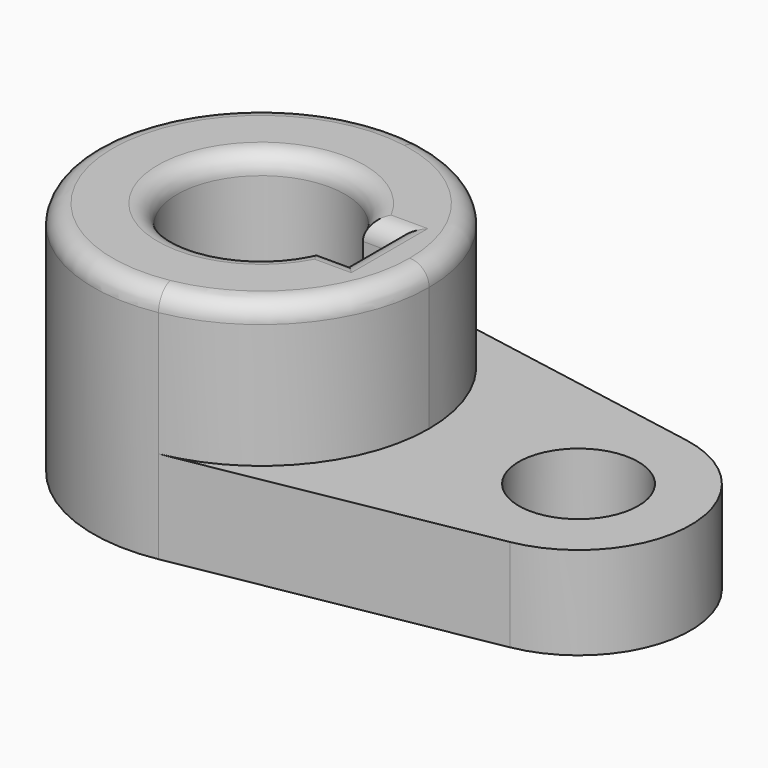
from build123d import *

# Parameters (mm, degrees)
F1_DEPTH = 40.2336
F0_R     = 10.16
F2_DEPTH = 15.7734
F3_R     = 3.302


with BuildPart() as f1:
    # F0 (on Top) → F1 (new body)
    with BuildSketch(Plane.XY):
        with BuildLine():
            ThreePointArc((5.042647, -28.126541), (21.916025, -18.336262), (28.575, 0))
            ThreePointArc((28.575, 0), (21.916025, 18.336262), (5.042647, 28.126541))
            ThreePointArc((5.042647, 28.126541), (-28.575, 0), (5.042647, -28.126541))
        make_face()
        with BuildLine():
            ThreePointArc((13.447765, -4.826), (-14.2875, 0), (13.447765, 4.826))
            Line((13.447765, 4.826), (18.5293, 4.826))
            Line((18.5293, 4.826), (18.5293, -4.826))
            Line((18.5293, -4.826), (13.447765, -4.826))
        make_face(mode=Mode.SUBTRACT)
    extrude(amount=F1_DEPTH)

    # F0 (on Top) → F2 (join)
    with BuildSketch(Plane.XY):
        with BuildLine():
            ThreePointArc((5.042647, -28.126541), (21.916025, -18.336262), (28.575, 0))
            ThreePointArc((28.575, 0), (21.916025, 18.336262), (5.042647, 28.126541))
            ThreePointArc((5.042647, 28.126541), (-28.575, 0), (5.042647, -28.126541))
        make_face()
        with BuildLine():
            ThreePointArc((13.447765, -4.826), (-14.2875, 0), (13.447765, 4.826))
            Line((13.447765, 4.826), (18.5293, 4.826))
            Line((18.5293, 4.826), (18.5293, -4.826))
            Line((18.5293, -4.826), (13.447765, -4.826))
        make_face(mode=Mode.SUBTRACT)
        with BuildLine():
            ThreePointArc((5.042647, 28.126541), (21.916025, 18.336262), (28.575, 0))
            ThreePointArc((28.575, 0), (21.916025, -18.336262), (5.042647, -28.126541))
            Line((5.042647, -28.126541), (57.336765, -18.751028))
            ThreePointArc((57.336765, -18.751028), (73.025, 0), (57.336765, 18.751028))
            Line((57.336765, 18.751028), (5.042647, 28.126541))
        make_face()
        with Locations((53.975, 0)):
            Circle(F0_R, mode=Mode.SUBTRACT)
    extrude(amount=F2_DEPTH)

    # F3
    f3_edges = [f1.edges().sort_by_distance(p)[0] for p in [
        (-5.042647, 28.126541, 40.2336),
        (-14.2875, 0, 40.2336),
        (15.988532, 4.826, 40.2336),
        (18.5293, 0, 40.2336),
        (15.988532, -4.826, 40.2336),
    ]]
    fillet(f3_edges, radius=F3_R)


solid = f1.part
